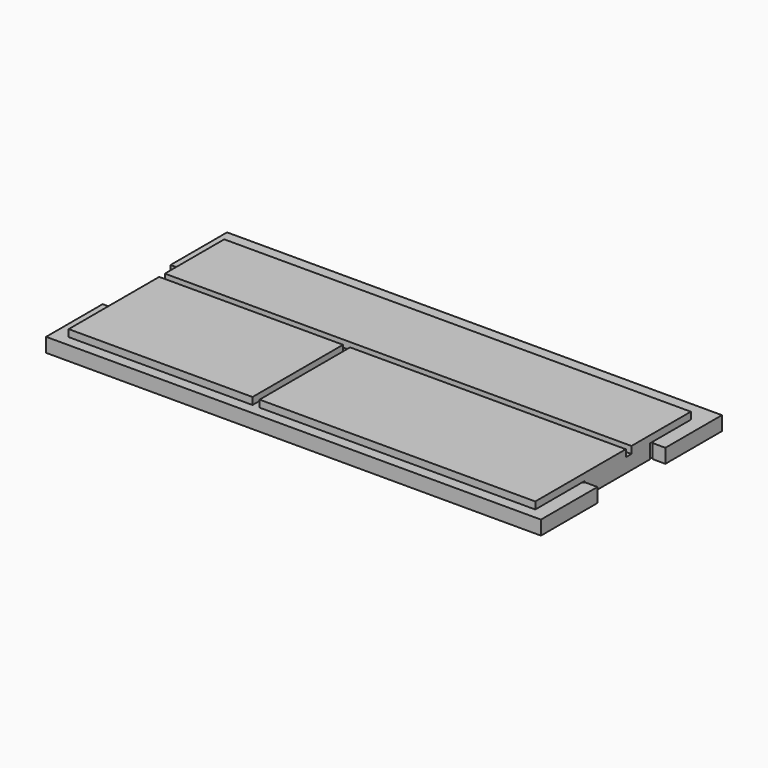
from build123d import *

# Parameters (mm, degrees)
F0_W     = 222.25
F0_H     = 101.6
F1_DEPTH = 9.525
F2_W     = 6.35
F2_H     = 38.1
F3_DEPTH = 9.526
F5_DEPTH = 3.175
F6_W     = 3.175
F6_H     = 50.8
F7_DEPTH = 3.175
F9_DEPTH = 6.35


with BuildPart() as f1:
    # F0 (on Top) → F1 (new body)
    with BuildSketch(Plane.XY):
        Rectangle(F0_W, F0_H)
    extrude(amount=F1_DEPTH)

    # F2 (on face) → F3 (cut, through all)
    with BuildSketch(Plane.XY.offset(9.525)):
        with Locations((-107.95, 0)):
            Rectangle(F2_W, F2_H)
        with Locations((107.95, 0)):
            Rectangle(F2_W, F2_H)
    extrude(amount=-F3_DEPTH, mode=Mode.SUBTRACT)

    # F4 (on face) → F5 (cut)
    with BuildSketch(Plane.XY.offset(9.525)):
        Polygon((-104.775, -46.0375), (-104.775, -19.05), (-111.125, -19.05), (-111.125, -50.8), (111.125, -50.8), (111.125, -19.05), (104.775, -19.05), (104.775, -46.0375), align=None)
        Polygon((-111.125, 19.05), (-104.775, 19.05), (-104.775, 41.275), (104.775, 41.275), (104.775, 19.05), (111.125, 19.05), (111.125, 50.8), (-111.125, 50.8), align=None)
    extrude(amount=-F5_DEPTH, mode=Mode.SUBTRACT)

    # F6 (on face) → F7 (cut)
    with BuildSketch(Plane.XY.offset(9.525)):
        Polygon((104.775, 7.9375), (-104.775, 7.9375), (-104.775, 4.7625), (-22.225, 4.7625), (-19.05, 4.7625), (104.775, 4.7625), align=None)
        with Locations((-20.6375, -20.6375)):
            Rectangle(F6_W, F6_H)
    extrude(amount=-F7_DEPTH, mode=Mode.SUBTRACT)

    # F8 (on face) → F9 (cut, through all)
    with BuildSketch(Plane(origin=(0, 0, 0), x_dir=(1, 0, 0), z_dir=(0, 0, -1))):
        with BuildLine():
            ThreePointArc((105.41, 19.05), (104.325987, 19.499013), (104.775, 18.415))
            Line((104.775, 18.415), (104.775, 19.05))
            Line((104.775, 19.05), (105.41, 19.05))
        make_face()
        with BuildLine():
            ThreePointArc((104.775, -18.415), (104.325987, -19.499013), (105.41, -19.05))
            Line((105.41, -19.05), (104.775, -19.05))
            Line((104.775, -19.05), (104.775, -18.415))
        make_face()
        with BuildLine():
            Line((-104.775, -19.05), (-105.41, -19.05))
            ThreePointArc((-105.41, -19.05), (-104.325987, -19.499013), (-104.775, -18.415))
            Line((-104.775, -18.415), (-104.775, -19.05))
        make_face()
        with BuildLine():
            Line((-104.775, 19.05), (-104.775, 18.415))
            ThreePointArc((-104.775, 18.415), (-104.325987, 19.499013), (-105.41, 19.05))
            Line((-105.41, 19.05), (-104.775, 19.05))
        make_face()
    extrude(amount=-F9_DEPTH, mode=Mode.SUBTRACT)


solid = f1.part
